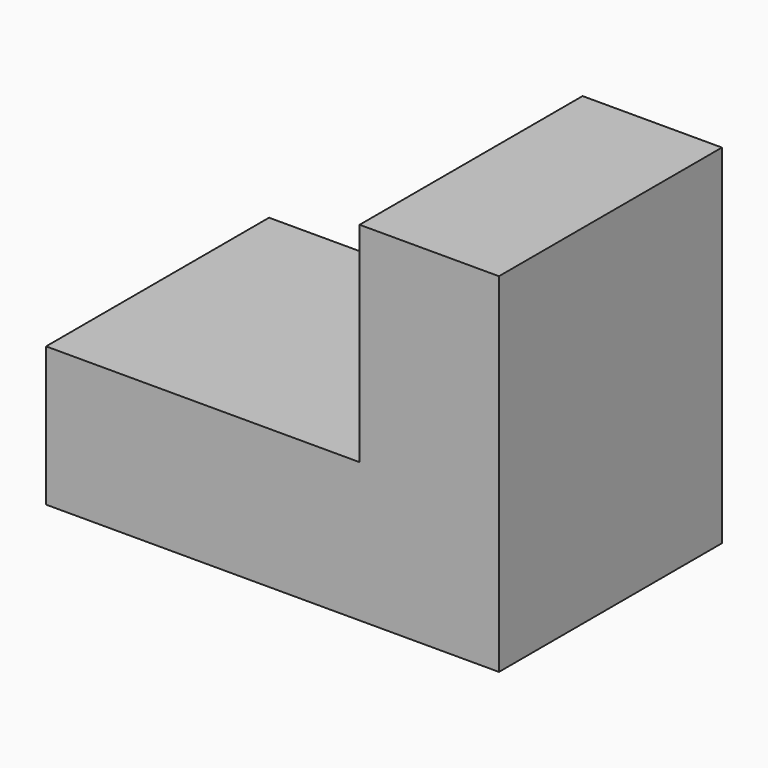
from build123d import *

# Parameters (mm, degrees)
F0_W     = 900
F0_H     = 800
F1_DEPTH = 400
F2_W     = 400
F2_H     = 800
F3_DEPTH = 1000


with BuildPart() as f1:
    # F0 (on Top) → F1 (new body)
    with BuildSketch(Plane.XY):
        with Locations((-22.583289, 100.151006)):
            Rectangle(F0_W, F0_H)
    extrude(amount=-F1_DEPTH)

    # F2 (on face) → F3 (join)
    with BuildSketch(Plane(origin=(0, 0, -400), x_dir=(1, 0, 0), z_dir=(0, 0, -1))):
        with Locations((627.416711, -100.151006)):
            Rectangle(F2_W, F2_H)
    extrude(amount=-F3_DEPTH)


solid = f1.part
